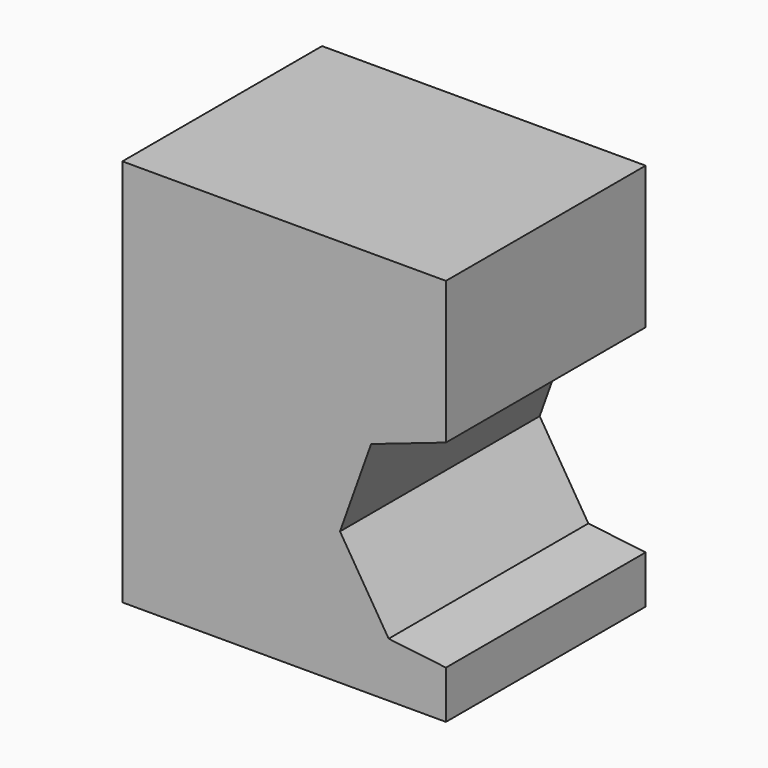
from build123d import *

# Parameters (mm, degrees)
F1_DEPTH = 27


with BuildPart() as f1:
    # F0 (on Front) → F1 (new body)
    with BuildSketch(Plane.XZ):
        Polygon((0, 26.372896), (-35, 26.372896), (-35, -15.627104), (0, -15.627104), (0, -10.456406), (-6.196081, -9.716332), (-11.459728, -1.213743), (-8.093966, 8.202819), (0, 10.974479), align=None)
    extrude(amount=-F1_DEPTH)


solid = f1.part
